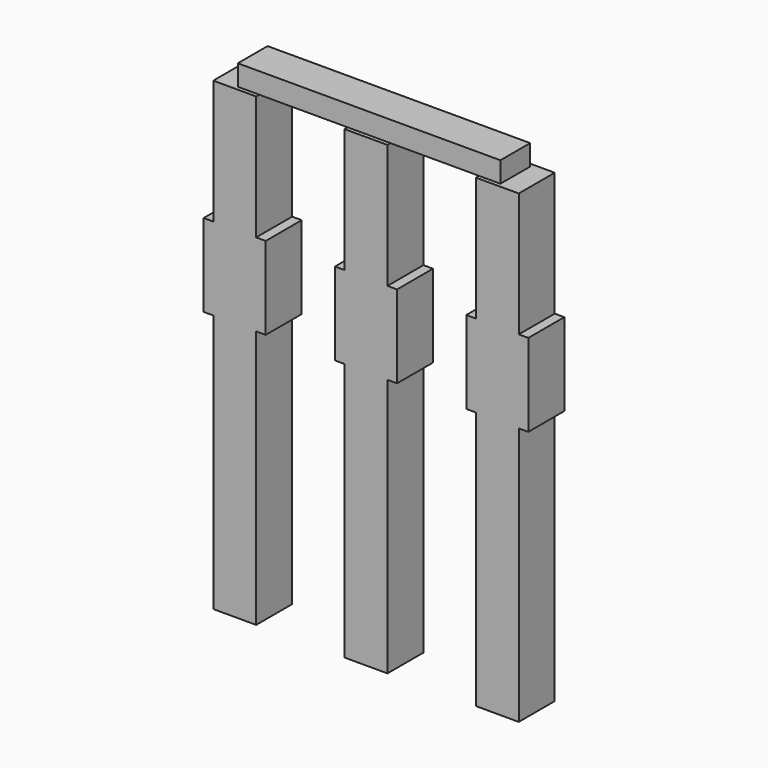
from build123d import *

# Parameters (mm, degrees)
SKETCH001_W         = 2.54
SKETCH001_H         = 0.2
PAD001_DEPTH        = 0.18
PAD002_DEPTH        = 0.2175
LINEARPATTERN_COUNT = 3
LINEARPATTERN_PITCH = 1.27


with BuildPart() as part:
    # Sketch001 → Pad001 (new body, symmetric)
    with BuildSketch(Plane.XZ):
        with Locations((1.27, 2.1)):
            Rectangle(SKETCH001_W, SKETCH001_H)
    extrude(amount=PAD001_DEPTH, both=True)

    # Sketch002 → Pad002 (join, symmetric)
    with BuildSketch(Plane.XZ):
        Polygon((0.2075, 2), (0.2075, 0.8), (0.3, 0.8), (0.3, 0), (0.2075, 0), (0.2075, -2.5), (-0.2075, -2.5), (-0.2075, 0), (-0.3, 0), (-0.3, 0.8), (-0.2075, 0.8), (-0.2075, 2), align=None)
    pad002 = extrude(amount=PAD002_DEPTH, both=True)

    # LinearPattern: Pad002 ×3
    with Locations(*[(i * LINEARPATTERN_PITCH, 0, 0) for i in range(1, LINEARPATTERN_COUNT)]):
        add(pad002)


solid = part.part
